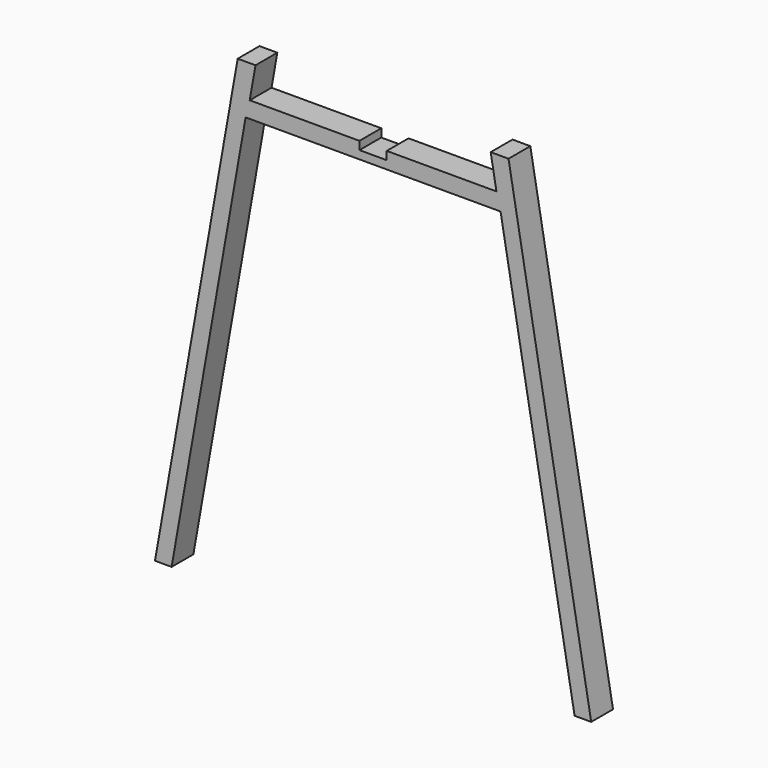
from build123d import *

# Parameters (mm, degrees)
F1_DEPTH = 12.5
F2_W     = 25
F2_H     = 7.5
F3_DEPTH = 12.5


with BuildPart() as f1:
    # F0 (on Front) → F1 (new body, symmetric)
    with BuildSketch(Plane.XZ):
        Polygon((-116.882713, 385), (0, 385), (0, 400), (-113.113844, 400), (-107.824034, 430), (-124.179398, 430), (-200, 0), (-184.768601, 0), align=None)
        Polygon((0, 400), (0, 385), (116.882713, 385), (184.768601, 0), (200, 0), (124.179398, 430), (107.824034, 430), (113.113844, 400), align=None)
    extrude(amount=F1_DEPTH, both=True)

    # F2 (on Front) → F3 (cut, symmetric)
    with BuildSketch(Plane.XZ):
        with Locations((0, 396.25)):
            Rectangle(F2_W, F2_H)
    extrude(amount=F3_DEPTH, both=True, mode=Mode.SUBTRACT)


solid = f1.part
